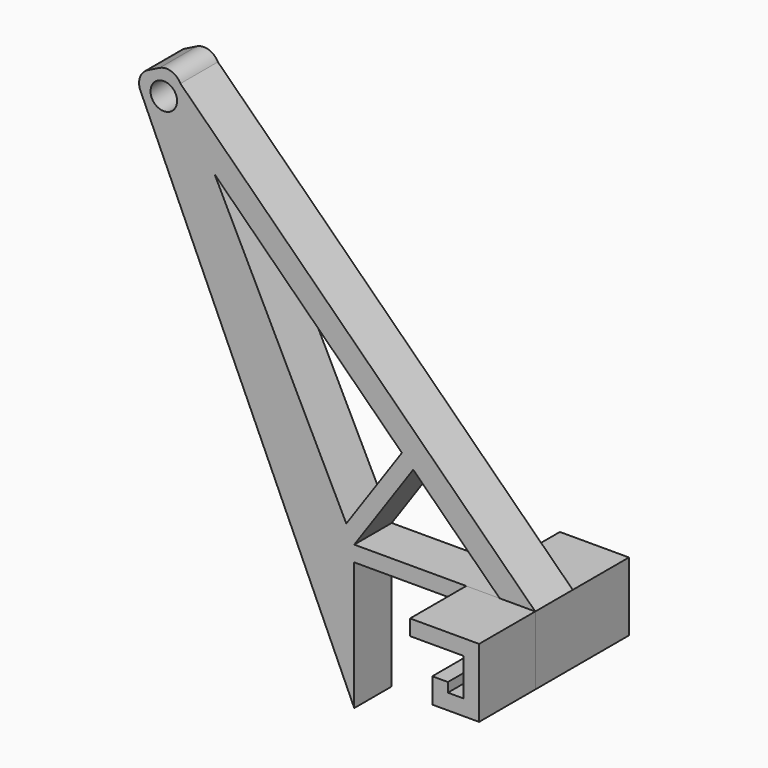
from build123d import *

# Parameters (mm, degrees)
F0_R     = 4.25
F1_DEPTH = 7.5
F2_DEPTH = 7.5
F3_DEPTH = 30


with BuildPart() as f1:
    # F0 (on Front) → F1 (new body, symmetric)
    with BuildSketch(Plane.XZ):
        with BuildLine():
            Line((9.235449, -124.736929), (9.235449, -83.625269))
            Line((9.235449, -83.625269), (45.117028, -83.625269))
            Line((45.117028, -83.625269), (45.117028, -78.625269))
            Line((45.117028, -78.625269), (9.235449, -78.625269))
            Line((9.235449, -78.625269), (6.692474, -73.514574))
            Line((6.692474, -73.514574), (-35.500905, 11.282746))
            Line((-35.500905, 11.282746), (-46.449409, 33.286288))
            ThreePointArc((-46.449409, 33.286288), (-49.33554, 35.799236), (-53.153265, 35.535356))
            Line((-53.153265, 35.535356), (-56.930254, 33.656006))
            ThreePointArc((-56.930254, 33.656006), (-59.412144, 30.859615), (-59.260681, 27.123757))
            Line((-59.260681, 27.123757), (9.235449, -124.736929))
        make_face()
        with Locations((-51.76803, 28.016366)):
            Circle(F0_R, mode=Mode.SUBTRACT)
        Polygon((28.121848, -51.347594), (55.831752, -78.625269), (67.235449, -78.625269), (-46.449409, 33.286288), (-35.500905, 11.282746), (24.505301, -47.78746), align=None)
        Polygon((6.692474, -73.514574), (9.235449, -78.625269), (28.121848, -51.347594), (24.505301, -47.78746), align=None)
    extrude(amount=F1_DEPTH, both=True)

    # F0 (on Front) → F2 (join, symmetric)
    with BuildSketch(Plane.XZ):
        Polygon((45.117028, -78.625269), (45.117028, -83.625269), (62.235449, -83.625269), (62.235449, -95.625269), (57.235449, -95.625269), (57.235449, -92.625269), (52.235449, -92.625269), (52.235449, -100.625269), (67.235449, -100.625269), (67.235449, -78.625269), (55.831752, -78.625269), align=None)
        with BuildLine():
            Line((9.235449, -124.736929), (9.235449, -83.625269))
            Line((9.235449, -83.625269), (45.117028, -83.625269))
            Line((45.117028, -83.625269), (45.117028, -78.625269))
            Line((45.117028, -78.625269), (9.235449, -78.625269))
            Line((9.235449, -78.625269), (6.692474, -73.514574))
            Line((6.692474, -73.514574), (-35.500905, 11.282746))
            Line((-35.500905, 11.282746), (-46.449409, 33.286288))
            ThreePointArc((-46.449409, 33.286288), (-49.33554, 35.799236), (-53.153265, 35.535356))
            Line((-53.153265, 35.535356), (-56.930254, 33.656006))
            ThreePointArc((-56.930254, 33.656006), (-59.412144, 30.859615), (-59.260681, 27.123757))
            Line((-59.260681, 27.123757), (9.235449, -124.736929))
        make_face()
        with Locations((-51.76803, 28.016366)):
            Circle(F0_R, mode=Mode.SUBTRACT)
    extrude(amount=F2_DEPTH, both=True)

    # F0 (on Front) → F3 (join)
    with BuildSketch(Plane.XZ):
        Polygon((45.117028, -78.625269), (45.117028, -83.625269), (62.235449, -83.625269), (62.235449, -95.625269), (57.235449, -95.625269), (57.235449, -92.625269), (52.235449, -92.625269), (52.235449, -100.625269), (67.235449, -100.625269), (67.235449, -78.625269), (55.831752, -78.625269), align=None)
    extrude(amount=F3_DEPTH)


with BuildPart() as f4_1:
    # F4: instance of F1
    add(f1.part.mirror(Plane.XZ))


solid = Compound([f1.part, f4_1.part])
